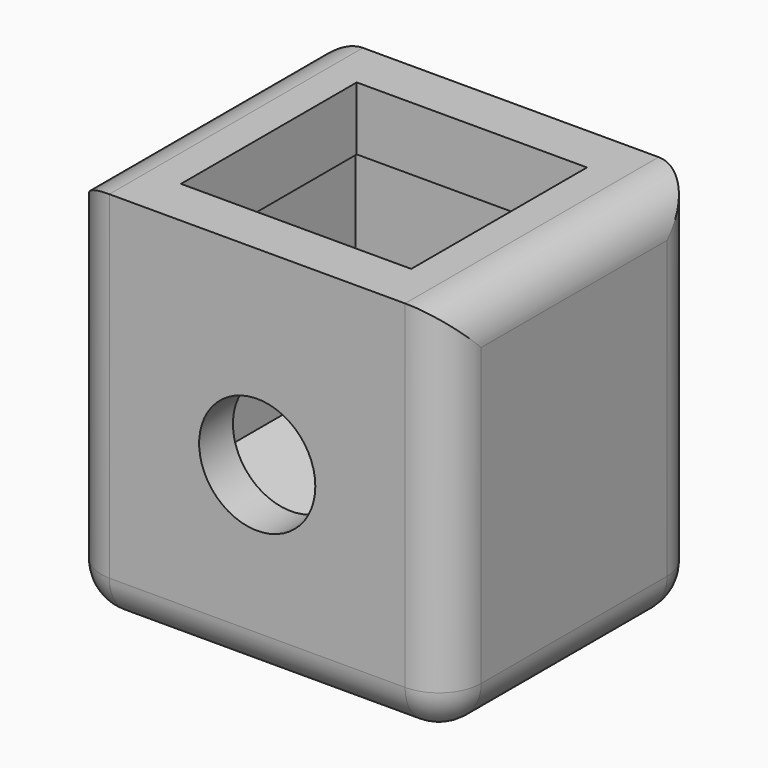
from build123d import *

# Parameters (mm, degrees)
F0_W      = 18
F0_H      = 18
F1_DEPTH  = 15
F5_DEPTH  = 11
F6_R      = 2.75
F7_DEPTH  = 15.001
F8_R      = 2
F9_W      = 11.5
F9_H      = 11
F9_W_2    = 10.9
F9_H_2    = 10.4
F10_DEPTH = 3


with BuildPart() as f1:
    # F0 (on Front) → F1 (new body)
    with BuildSketch(Plane.XZ):
        Rectangle(F0_W, F0_H)
    extrude(amount=F1_DEPTH)

    # F3 (on offset) → F5 (cut, through all)
    with BuildSketch(Plane.XZ.offset(13)):
        Polygon((5.75, -3.319764), (5.75, 3.319764), (5.75, 9.680236), (-5.75, 9.680236), (-5.75, 3.680236), (-5.75, -3.319764), (0, -6.639528), align=None)
    extrude(amount=-F5_DEPTH, mode=Mode.SUBTRACT)

    # F6 (on face) → F7 (cut, through all)
    with BuildSketch(Plane.XZ.offset(15)):
        Circle(F6_R)
    extrude(amount=-F7_DEPTH, mode=Mode.SUBTRACT)

    # F8
    f8_edges = [f1.edges().sort_by_distance(p)[0] for p in [
        (-9, -7.5, 9),
        (-9, -7.5, -9),
        (-9, 0, 0),
        (-9, -15, 0),
        (9, -7.5, -9),
        (9, -7.5, 9),
        (9, 0, 0),
        (9, -15, 0),
        (0, 0, -9),
        (0, -15, -9),
    ]]
    fillet(f8_edges, radius=F8_R)

    # F9 (on face) → F10 (join)
    with BuildSketch(Plane.XY.offset(9)):
        with Locations((0, -7.5)):
            Rectangle(F9_W, F9_H)
        with Locations((0, -7.5)):
            Rectangle(F9_W_2, F9_H_2, mode=Mode.SUBTRACT)
    extrude(amount=-F10_DEPTH)


solid = f1.part
